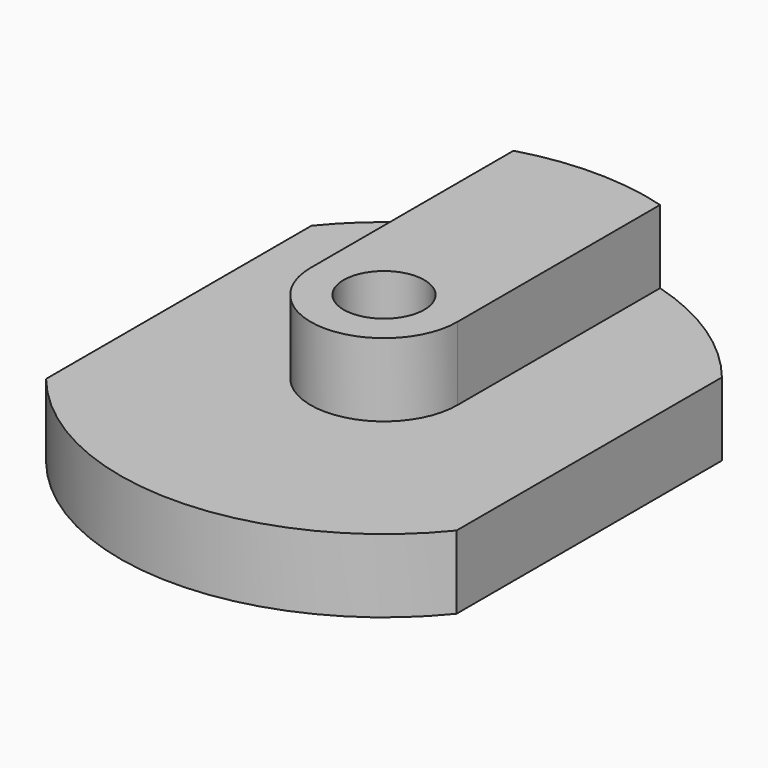
from build123d import *

# Parameters (mm, degrees)
F1_DEPTH = 5
F3_DEPTH = 5
F5_D     = 5.5


with BuildPart() as f1:
    # F0 (on Top) → F1 (new body)
    with BuildSketch(Plane.XY):
        with BuildLine():
            Line((-14, 11.313708499), (-14, -11.313708499))
            ThreePointArc((-14, -11.313708499), (0, -18), (14, -11.313708499))
            Line((14, -11.313708499), (14, 11.313708499))
            ThreePointArc((14, 11.313708499), (0, 18), (-14, 11.313708499))
        make_face()
    extrude(amount=F1_DEPTH)

    # F2 (on face) → F3 (join)
    with BuildSketch(Plane.XY.offset(5)):
        with BuildLine():
            Line((-5, 17.2916164658), (-5, 0))
            ThreePointArc((-5, 0), (0, -5), (5, 0))
            Line((5, 0), (5, 17.2916164658))
            ThreePointArc((5, 17.2916164658), (0, 18), (-5, 17.2916164658))
        make_face()
    extrude(amount=F3_DEPTH)

    # F5 (through all)
    with Locations(Plane(origin=(0, 0, 0), x_dir=(1, 0, 0), z_dir=(0, 0, -1))):
        with Locations((0, 0)):
            Hole(F5_D / 2)


solid = f1.part
